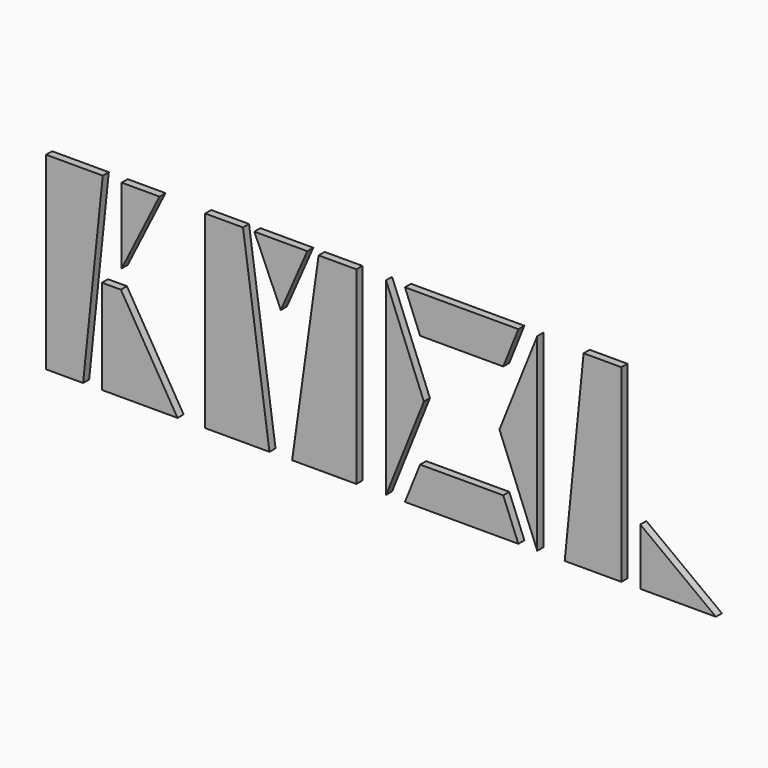
from build123d import *

# Parameters (mm, degrees)
F4_DEPTH = 2


with BuildPart() as f4:
    # F0 (on Front) + F1 (on Front) + F2 (on Front) + F3 (on Front) → F4 (new body)
    with BuildSketch(Plane.XZ):
        Polygon((-55.104164, 50), (-55.104164, 0), (-45.312497, 0), (-40.104164, 50), align=None)
        Polygon((-40.312497, 25), (-40.312497, 0), (-20.312497, 0), (-35.312497, 25), align=None)
        Polygon((-35.104164, 50), (-35.104164, 30), (-25.104164, 50), align=None)
    with BuildSketch(Plane.XZ):
        Polygon((-13, 50), (-13, 0), (4, 0), (-3, 50), align=None)
        Polygon((14, 50), (0, 50), (7, 34), align=None)
        Polygon((27, 0), (27, 50), (17, 50), (10, 0), align=None)
    with BuildSketch(Plane.XZ):
        Polygon((34.851789, 50), (34.851789, 0), (44.851789, 25), align=None)
        Polygon((43.851789, 10), (39.851789, 0), (69.851789, 0), (65.851789, 10), align=None)
        Polygon((74.851789, 0), (74.851789, 50), (64.851789, 25), align=None)
        Polygon((39.851789, 50), (43.851789, 40), (65.851789, 40), (69.851789, 50), align=None)
    with BuildSketch(Plane.XZ):
        Polygon((87.117943, 50), (82.117943, 0), (97.117943, 0), (97.117943, 50), align=None)
        Polygon((102.117943, 15), (102.117943, 0), (122.117943, 0), align=None)
    extrude(amount=F4_DEPTH)


solid = f4.part
